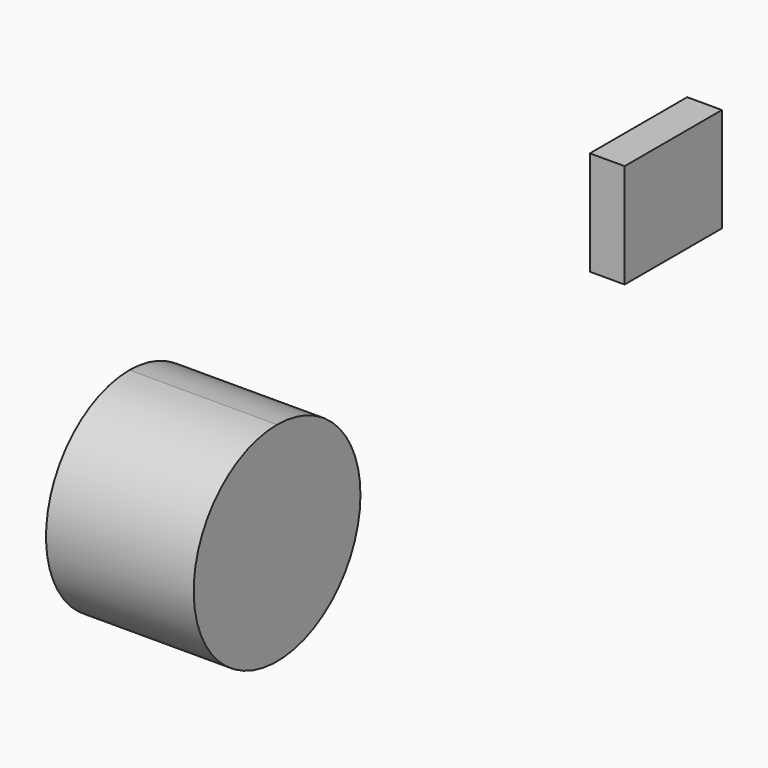
from build123d import *

# Parameters (mm, degrees)
F0_W     = 88.9
F0_H     = 76.2
F1_DEPTH = 25.4
F3_DEPTH = 107.95


with BuildPart() as f1:
    # F0 (on Right) → F1 (new body)
    with BuildSketch(Plane.YZ):
        with Locations((-6.587703, 6.560535)):
            Rectangle(F0_W, F0_H)
    extrude(amount=F1_DEPTH)


with BuildPart() as f3:
    # F2 (on Right) → F3 (new body)
    with BuildSketch(Plane.YZ):
        with BuildLine():
            ThreePointArc((-471.83465, 76.2), (-525.716187, -53.881537), (-395.63465, 0))
            ThreePointArc((-395.63465, 0), (-417.953114, 53.881537), (-471.83465, 76.2))
        make_face()
    extrude(amount=F3_DEPTH)


solid = Compound([f1.part, f3.part])
